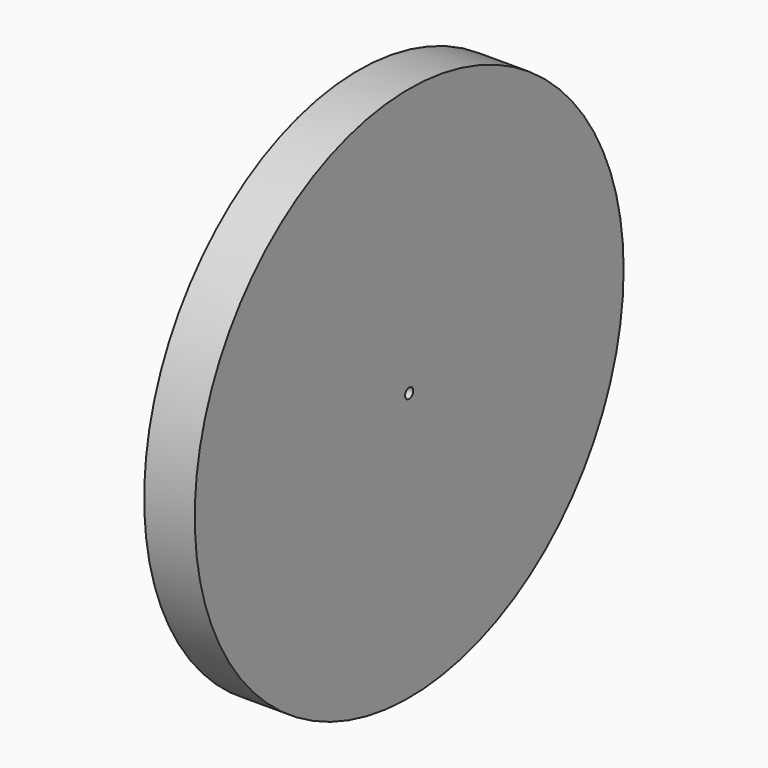
from build123d import *

# Parameters (mm, degrees)
SKETCH002_R  = 265
PAD001_DEPTH = 50
SKETCH_R     = 5
POCKET_DEPTH = 50


with BuildPart() as part:
    # Sketch002 → Pad001 (new body)
    with BuildSketch(Plane.YZ):
        Circle(SKETCH002_R)
    extrude(amount=PAD001_DEPTH)

    # Sketch (on Face3 of Pad001) → Pocket (cut)
    with BuildSketch(Plane.YZ.offset(50)):
        Circle(SKETCH_R)
    extrude(amount=-POCKET_DEPTH, mode=Mode.SUBTRACT)


solid = part.part
